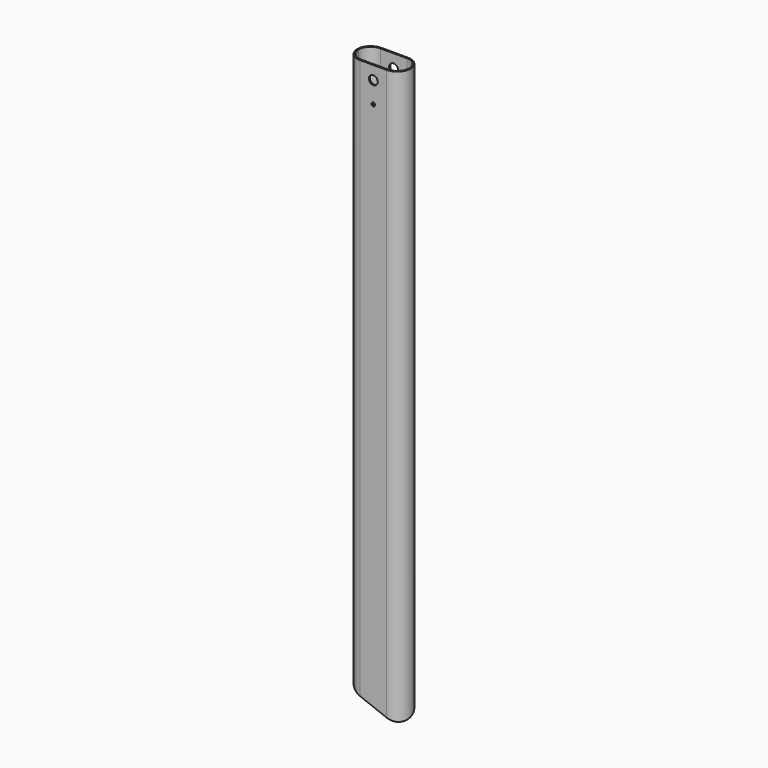
from build123d import *

# Parameters (mm, degrees)
F1_DEPTH      = 644
F2_R          = 5
F2_R_2        = 2
F3_DEPTH      = 40
F8_W          = 94.9183702469
F8_H          = 83.3485722542
F9_DEPTH      = 11
F9_DEPTH_BACK = 25


with BuildPart() as f1:
    # F0 (on Top) → F1 (new body)
    with BuildSketch(Plane.XY):
        with BuildLine():
            Line((15, 15), (-15, 15))
            ThreePointArc((-15, 15), (-25.6066017178, 10.6066017178), (-30, 0))
            ThreePointArc((-30, 0), (-25.6066017178, -10.6066017178), (-15, -15))
            Line((-15, -15), (15, -15))
            ThreePointArc((15, -15), (25.6066017178, -10.6066017178), (30, 0))
            ThreePointArc((30, 0), (25.6066017178, 10.6066017178), (15, 15))
        make_face()
        with BuildLine():
            ThreePointArc((-28.5, 0), (-24.545941546, 9.545941546), (-15, 13.5))
            Line((-15, 13.5), (15, 13.5))
            ThreePointArc((15, 13.5), (24.545941546, 9.545941546), (28.5, 0))
            ThreePointArc((28.5, 0), (24.545941546, -9.545941546), (15, -13.5))
            Line((15, -13.5), (-15, -13.5))
            ThreePointArc((-15, -13.5), (-24.545941546, -9.545941546), (-28.5, 0))
        make_face(mode=Mode.SUBTRACT)
    extrude(amount=-F1_DEPTH)

    # F2 (on face) → F3 (cut)
    with BuildSketch(Plane(origin=(0, 15, 0), x_dir=(-1, 0, 0), z_dir=(0, 1, 0))):
        with Locations((0, -15)):
            Circle(F2_R)
        with Locations((0, -39)):
            Circle(F2_R_2)
    extrude(amount=-F3_DEPTH, mode=Mode.SUBTRACT)

    # F8 (on face) → F9 (cut, two sides)
    with BuildSketch(Plane(origin=(-194.0232580496, 182.3222238501, -500.9261930928), x_dir=(0.9396926208, 0.1169777784, -0.3213938048), z_dir=(-0.3420201433, 0.3213938048, -0.8830222216))) as f9_sk:
        with Locations((206.5364569426, 219.5619344711)):
            Rectangle(F8_W, F8_H)
    extrude(amount=-F9_DEPTH, mode=Mode.SUBTRACT)
    extrude(f9_sk.sketch, amount=F9_DEPTH_BACK, mode=Mode.SUBTRACT)


solid = f1.part
